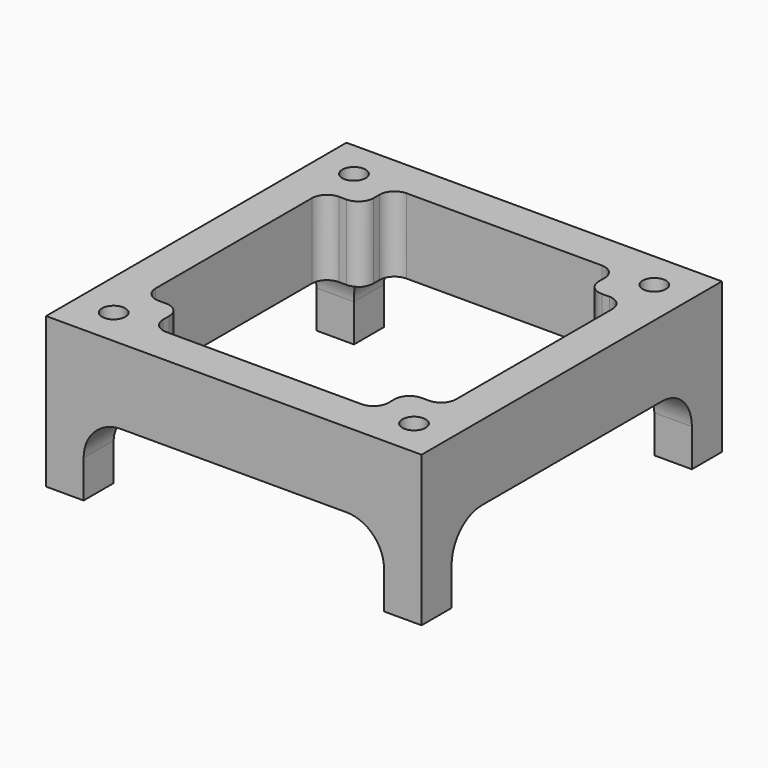
from build123d import *

# Parameters (mm, degrees)
SKETCH134_W             = 50
SKETCH134_H             = 50
PAD023_DEPTH            = 20
POCKET112_DEPTH         = 20.001
POCKET113_DEPTH         = 50.001
POCKET114_DEPTH         = 50.001
SKETCH138_R             = 1.55
POCKET115_DEPTH         = 5
SKETCH139_R             = 1.55
POCKET116_DEPTH         = 3
BODY024_PLACEMENT_ANGLE = 180


with BuildPart() as part:
    # Sketch134 → Pad023 (new body)
    with BuildSketch(Plane.XY):
        Rectangle(SKETCH134_W, SKETCH134_H)
    extrude(amount=PAD023_DEPTH)

    # Sketch135 (on Face6 of Pad023) → Pocket112 (cut, through all)
    with BuildSketch(Plane.XY.offset(20)):
        with BuildLine():
            Line((-18, 15), (-17, 15))
            ThreePointArc((-17, 15), (-15.585786, 15.585786), (-15, 17))
            Line((-15, 17), (-15, 18))
            ThreePointArc((-13, 20), (-14.414214, 19.414214), (-15, 18))
            Line((-13, 20), (13, 20))
            ThreePointArc((15, 18), (14.414214, 19.414214), (13, 20))
            Line((15, 18), (15, 17))
            ThreePointArc((15, 17), (15.585786, 15.585786), (17, 15))
            Line((17, 15), (18, 15))
            ThreePointArc((20, 13), (19.414214, 14.414214), (18, 15))
            Line((20, 13), (20, -13))
            ThreePointArc((18, -15), (19.414214, -14.414214), (20, -13))
            Line((18, -15), (17, -15))
            ThreePointArc((17, -15), (15.585786, -15.585786), (15, -17))
            Line((15, -17), (15, -18))
            ThreePointArc((13, -20), (14.414214, -19.414214), (15, -18))
            Line((13, -20), (-13, -20))
            ThreePointArc((-15, -18), (-14.414214, -19.414214), (-13, -20))
            Line((-15, -18), (-15, -17))
            ThreePointArc((-15, -17), (-15.585786, -15.585786), (-17, -15))
            Line((-17, -15), (-18, -15))
            ThreePointArc((-20, -13), (-19.414214, -14.414214), (-18, -15))
            Line((-20, -13), (-20, 13))
            ThreePointArc((-18, 15), (-19.414214, 14.414214), (-20, 13))
        make_face()
    extrude(amount=-POCKET112_DEPTH, mode=Mode.SUBTRACT)

    # Sketch136 (on Face3 of Pocket112) → Pocket113 (cut, through all)
    with BuildSketch(Plane.YZ.offset(25)):
        with BuildLine():
            Line((-15, 10), (15, 10))
            ThreePointArc((20, 5), (18.535534, 8.535534), (15, 10))
            Line((20, 5), (20, 0))
            Line((20, 0), (-20, 0))
            Line((-20, 0), (-20, 5))
            ThreePointArc((-15, 10), (-18.535534, 8.535534), (-20, 5))
        make_face()
    extrude(amount=-POCKET113_DEPTH, mode=Mode.SUBTRACT)

    # Sketch137 (on Face6 of Pocket112) → Pocket114 (cut, through all)
    with BuildSketch(Plane.XZ.offset(25)):
        with BuildLine():
            Line((-15, 10), (15, 10))
            ThreePointArc((20, 5), (18.535534, 8.535534), (15, 10))
            Line((20, 5), (20, 0))
            Line((20, 0), (-20, 0))
            Line((-20, 0), (-20, 5))
            ThreePointArc((-15, 10), (-18.535534, 8.535534), (-20, 5))
        make_face()
    extrude(amount=-POCKET114_DEPTH, mode=Mode.SUBTRACT)

    # Sketch138 → Pocket115 (cut)
    with BuildSketch(Plane.XY.offset(20)):
        with Locations((-20, 20)):
            Circle(SKETCH138_R)
        with Locations((20, 20)):
            Circle(SKETCH138_R)
        with Locations((20, -20)):
            Circle(SKETCH138_R)
        with Locations((-20, -20)):
            Circle(SKETCH138_R)
    extrude(amount=-POCKET115_DEPTH, mode=Mode.SUBTRACT)

    # Sketch139 (on Face27 of Pocket115) → Pocket116 (cut)
    with BuildSketch(Plane.XZ.offset(25)):
        with Locations((-20, 14)):
            Circle(SKETCH139_R)
        with Locations((20, 14)):
            Circle(SKETCH139_R)
    extrude(amount=-POCKET116_DEPTH, mode=Mode.SUBTRACT)


with BuildPart() as part_1:
    # Body024 placement: moved
    add(part.part.moved(Location((85, 145, 0))).rotate(Axis((85, 145, 0), (0, 0, 1)), BODY024_PLACEMENT_ANGLE))


solid = part_1.part
